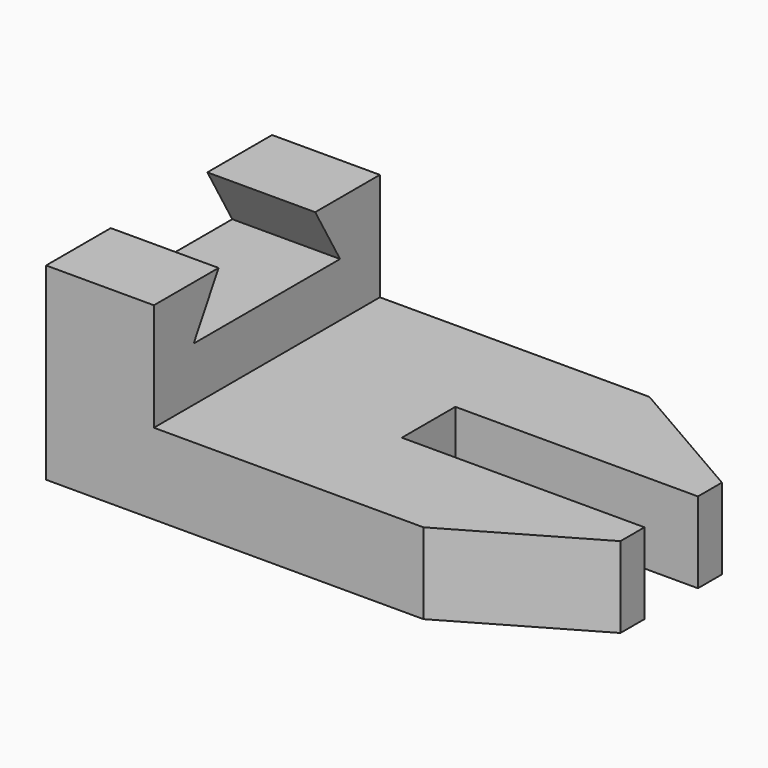
from build123d import *

# Parameters (mm, degrees)
F0_W     = 120.65
F0_H     = 66.548
F1_DEPTH = 44.45
F2_W     = 95.25
F2_H     = 25.4
F3_DEPTH = 182.372
F5_DEPTH = 80.518
F7_DEPTH = 103.632
F9_DEPTH = 44.196


with BuildPart() as f1:
    # F0 (on Top) → F1 (new body)
    with BuildSketch(Plane.XY):
        with Locations((8.846484, 5.5548)):
            Rectangle(F0_W, F0_H)
    extrude(amount=F1_DEPTH)

    # F2 (on face) → F3 (cut)
    with BuildSketch(Plane.XZ.offset(27.7192)):
        with Locations((21.546484, 31.75)):
            Rectangle(F2_W, F2_H)
    extrude(amount=-F3_DEPTH, mode=Mode.SUBTRACT)

    # F4 (on face) → F5 (cut)
    with BuildSketch(Plane.XY.offset(19.05)):
        Polygon((69.171484, 5.5548), (69.171484, 13.4288), (12.021484, 13.4288), (12.021484, 5.5548), (12.021484, -2.3192), (69.171484, -2.3192), align=None)
    extrude(amount=-F5_DEPTH, mode=Mode.SUBTRACT)

    # F6 (on face) → F7 (cut)
    with BuildSketch(Plane.YZ.offset(-26.078516)):
        Polygon((5.5548, 44.45), (-8.6692, 44.45), (-16.001548, 31.75), (-8.6692, 31.75), (5.5548, 31.75), (19.7788, 31.75), (27.111149, 31.75), (19.7788, 44.45), align=None)
    extrude(amount=-F7_DEPTH, mode=Mode.SUBTRACT)

    # F8 (on face) → F9 (cut)
    with BuildSketch(Plane.XY.offset(19.05)):
        Polygon((37.421484, -27.7192), (69.171484, -27.7192), (69.171484, -9.388329), align=None)
        Polygon((69.171484, 20.497929), (69.171484, 38.8288), (37.421484, 38.8288), align=None)
    extrude(amount=-F9_DEPTH, mode=Mode.SUBTRACT)


solid = f1.part
